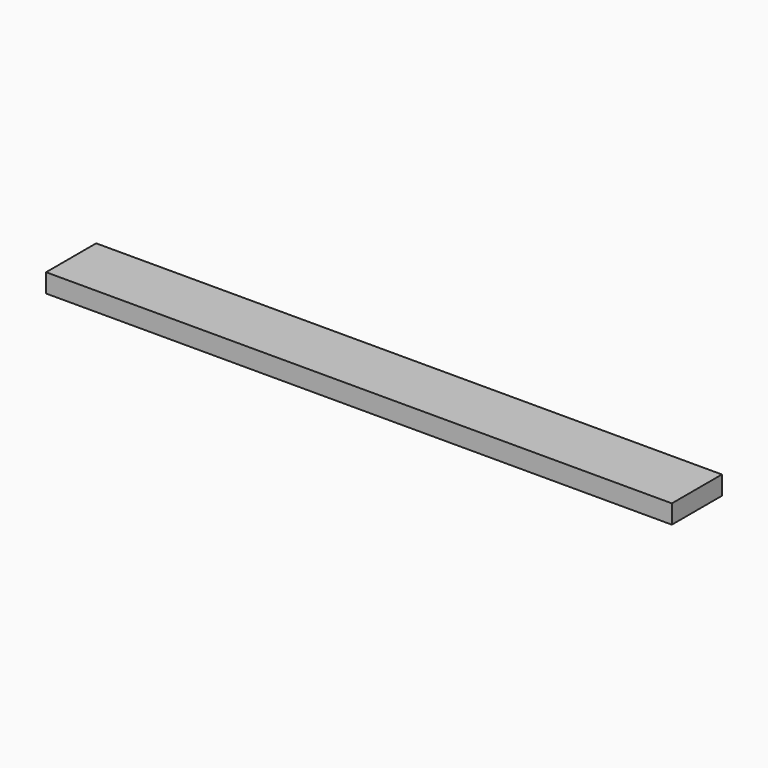
from build123d import *

# Parameters (mm, degrees)
SKETCH_W  = 2000
SKETCH_H  = 200
PAD_DEPTH = 60


with BuildPart() as part:
    # Sketch → Pad (new body)
    with BuildSketch(Plane.XY):
        with Locations((1000, 100)):
            Rectangle(SKETCH_W, SKETCH_H)
    extrude(amount=PAD_DEPTH)


solid = part.part
